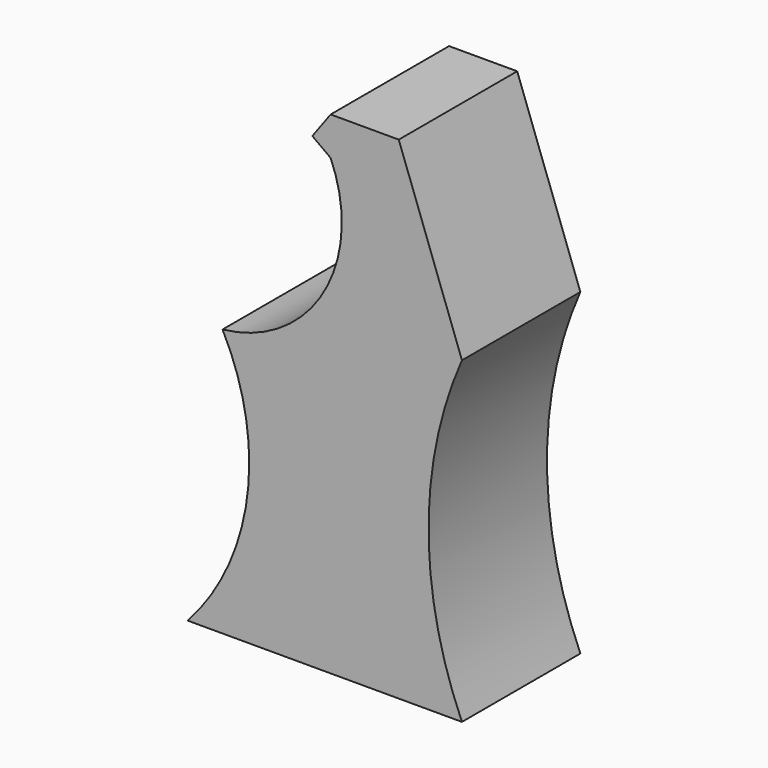
from build123d import *

# Parameters (mm, degrees)
F1_DEPTH = 12.7


with BuildPart() as f1:
    # F0 (on Front) → F1 (new body, symmetric)
    with BuildSketch(Plane.XZ):
        with BuildLine():
            ThreePointArc((-18.540641, -8.69984), (-14.303994, -32.604974), (-24.530694, -54.623585))
            Line((-24.530694, -54.623585), (22.534009, -54.623585))
            ThreePointArc((22.534009, -54.623585), (16.80942, -27.311793), (22.534009, 0))
            Line((22.534009, 0), (11.694868, 29.807648))
            Line((11.694868, 29.807648), (0, 29.807648))
            Line((0, 29.807648), (-3.137648, 25.529038))
            Line((-3.137648, 25.529038), (0, 23.247113))
            ThreePointArc((0, 23.247113), (-1.177988, 2.577194), (-18.540641, -8.69984))
        make_face()
    extrude(amount=F1_DEPTH, both=True)


solid = f1.part
